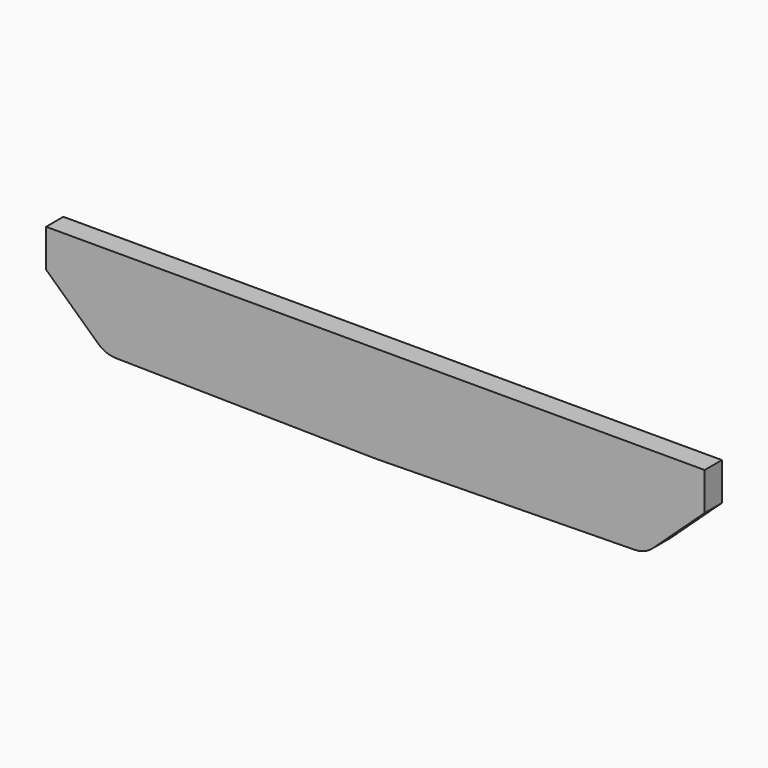
from build123d import *

# Parameters (mm, degrees)
F1_DEPTH = 25.4


with BuildPart() as f1:
    # F0 (on Front) → F1 (new body)
    with BuildSketch(Plane.XZ):
        with BuildLine():
            Line((387.35, 82.55), (-387.312791, 82.55))
            Line((-387.312791, 82.55), (-387.312791, 38.1))
            Line((-387.312791, 38.1), (-326.211106, -18.423178))
            ThreePointArc((-326.211106, -18.423178), (-316.509344, -24.556852), (-305.256305, -26.818544))
            Line((-305.256305, -26.818544), (0, -31.588756))
            Line((0, -31.588756), (305.147464, -26.819907))
            ThreePointArc((305.147464, -26.819907), (316.478654, -24.583383), (326.248197, -18.422707))
            Line((326.248197, -18.422707), (387.35, 38.1))
            Line((387.35, 38.1), (387.35, 82.55))
        make_face()
    extrude(amount=F1_DEPTH)


solid = f1.part
